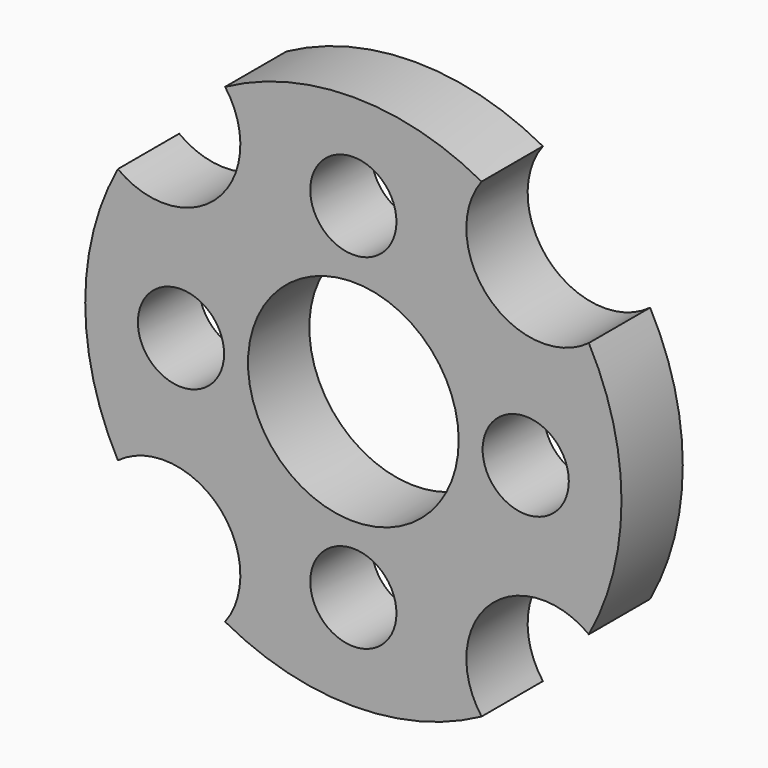
from build123d import *

# Parameters (mm, degrees)
F0_R     = 1.125
F0_R_2   = 2.75
F1_DEPTH = 2


with BuildPart() as f1:
    # F0 (on Front) → F1 (new body)
    with BuildSketch(Plane.XZ):
        with BuildLine():
            ThreePointArc((-6.147425, -3.348009), (-3.535534, -3.535534), (-3.348009, -6.147425))
            ThreePointArc((-3.348009, -6.147425), (0, -7), (3.348009, -6.147425))
            ThreePointArc((3.348009, -6.147425), (3.535534, -3.535534), (6.147425, -3.348009))
            ThreePointArc((6.147425, -3.348009), (7, 0), (6.147425, 3.348009))
            ThreePointArc((6.147425, 3.348009), (3.535534, 3.535534), (3.348009, 6.147425))
            ThreePointArc((3.348009, 6.147425), (0, 7), (-3.348009, 6.147425))
            ThreePointArc((-3.348009, 6.147425), (-3.535534, 3.535534), (-6.147425, 3.348009))
            ThreePointArc((-6.147425, 3.348009), (-7, 0), (-6.147425, -3.348009))
        make_face()
        with Locations((0, -4.5)):
            Circle(F0_R, mode=Mode.SUBTRACT)
        with Locations((-4.5, 0)):
            Circle(F0_R, mode=Mode.SUBTRACT)
        Circle(F0_R_2, mode=Mode.SUBTRACT)
        with Locations((4.5, 0)):
            Circle(F0_R, mode=Mode.SUBTRACT)
        with Locations((0, 4.5)):
            Circle(F0_R, mode=Mode.SUBTRACT)
    extrude(amount=F1_DEPTH)


solid = f1.part
